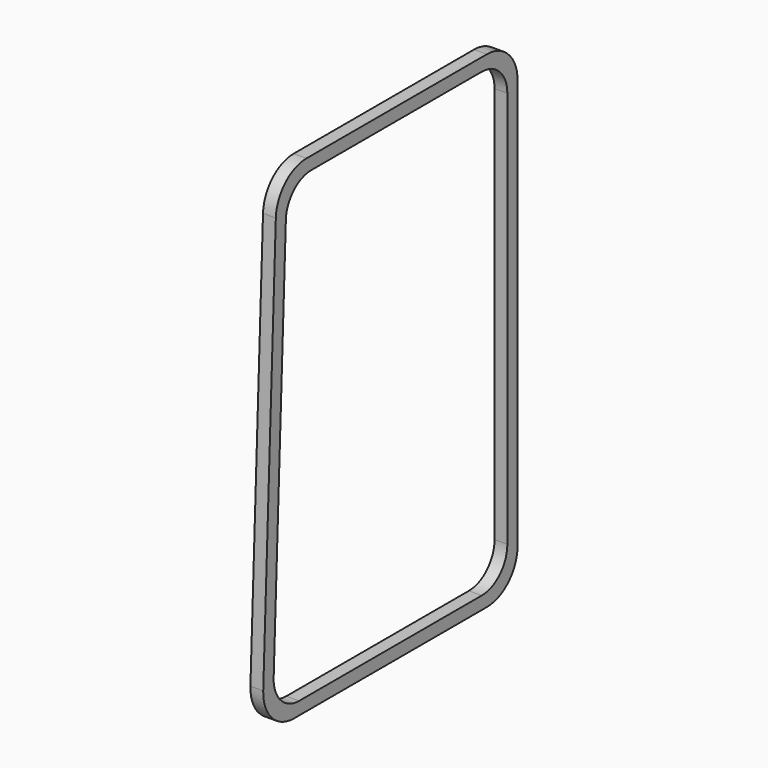
from build123d import *

# Parameters (mm, degrees)
BOX055_W          = 5
BOX055_H          = 24
BOX055_DEPTH      = 40
BOX055_ROLL_ANGLE = -2.2
BOX054_W          = 1
BOX054_H          = 23
BOX054_DEPTH      = 36
FILLET061_R       = 2.5
BOX011_W          = 5
BOX011_H          = 24
BOX011_DEPTH      = 40
BOX011_ROLL_ANGLE = -2.2
BOX010_W          = 1
BOX010_H          = 25
BOX010_DEPTH      = 38
FILLET047_R       = 3


with BuildPart() as cube481:
    # Box055 → Box055 (new body)
    with BuildSketch(Plane.XY):
        with Locations((2.5, 12)):
            Rectangle(BOX055_W, BOX055_H)
    extrude(amount=BOX055_DEPTH)


with BuildPart() as cube481_1:
    # Box055 roll: moved
    add(cube481.part.rotate(Axis((0, 0, 0), (1, 0, 0)), BOX055_ROLL_ANGLE))


with BuildPart() as cube481_2:
    # Box055 placement: moved
    add(cube481_1.part.moved(Location((175, -23, -1))))


with BuildPart() as fillet061:
    # Box054 → Box054 (new body)
    with BuildSketch(Plane(origin=(175, 1, 1), x_dir=(1, 0, 0), z_dir=(0, 0, 1))):
        with Locations((0.5, 11.5)):
            Rectangle(BOX054_W, BOX054_H)
    extrude(amount=BOX054_DEPTH)

    # Cut040: cut Cube481
    add(cube481_2.part, mode=Mode.SUBTRACT)


with BuildPart() as fillet061_1:
    # Cut040 placement: moved
    add(fillet061.part.moved(Location((-57, 17, 74))))

    # Fillet061
    fillet061_edges = [fillet061_1.edges().sort_by_distance(p)[0] for p in [
        (118.5, 41, 111),
        (118.5, 19.477516, 111),
        (118.5, 41, 75),
        (118.5, 18.094535, 75),
    ]]
    fillet(fillet061_edges, radius=FILLET061_R)


with BuildPart() as cube379:
    # Box011 → Box011 (new body)
    with BuildSketch(Plane.XY):
        with Locations((2.5, 12)):
            Rectangle(BOX011_W, BOX011_H)
    extrude(amount=BOX011_DEPTH)


with BuildPart() as cube379_1:
    # Box011 roll: moved
    add(cube379.part.rotate(Axis((0, 0, 0), (1, 0, 0)), BOX011_ROLL_ANGLE))


with BuildPart() as cube379_2:
    # Box011 placement: moved
    add(cube379_1.part.moved(Location((175, -24, -1))))


with BuildPart() as cut041:
    # Box010 → Box010 (new body)
    with BuildSketch(Plane(origin=(175, 0, 0), x_dir=(1, 0, 0), z_dir=(0, 0, 1))):
        with Locations((0.5, 12.5)):
            Rectangle(BOX010_W, BOX010_H)
    extrude(amount=BOX010_DEPTH)

    # Cut004: cut Cube379
    add(cube379_2.part, mode=Mode.SUBTRACT)


with BuildPart() as cut041_1:
    # Cut004 placement: moved
    add(cut041.part.moved(Location((-57, 17, 74))))

    # Fillet047
    fillet047_edges = [cut041_1.edges().sort_by_distance(p)[0] for p in [
        (118.5, 42, 112),
        (118.5, 18.515932, 112),
        (118.5, 42, 74),
        (118.5, 17.056119, 74),
    ]]
    fillet(fillet047_edges, radius=FILLET047_R)

    # Cut041: cut Fillet061
    add(fillet061_1.part, mode=Mode.SUBTRACT)


solid = cut041_1.part
